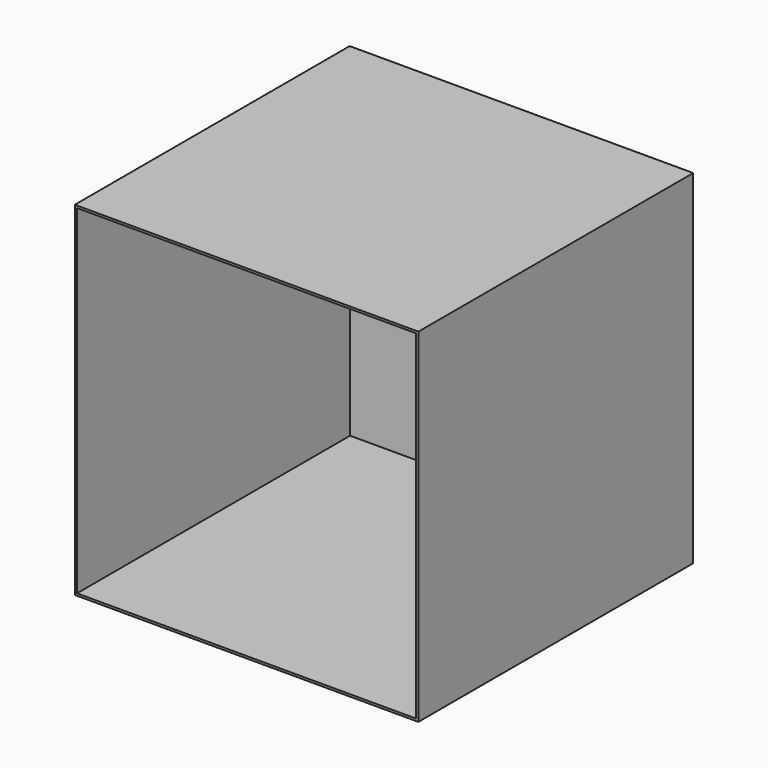
from build123d import *

# Parameters (mm, degrees)
F2_W     = 47.88
F2_H     = 47.88
F3_DEPTH = 0.31
F2_W_2   = 48.5
F2_H_2   = 48.5
F4_DEPTH = 48.5


with BuildPart() as f3:
    # F2 (on Front) → F3 (new body)
    with BuildSketch(Plane.XZ):
        with Locations((-389.1698562622, -641.3108897276)):
            Rectangle(F2_W, F2_H)
    extrude(amount=F3_DEPTH)

    # F2 (on Front) → F4 (join)
    with BuildSketch(Plane.XZ):
        with Locations((-389.1698562622, -641.3108897276)):
            Rectangle(F2_W_2, F2_H_2)
        with Locations((-389.1698562622, -641.3108897276)):
            Rectangle(F2_W, F2_H, mode=Mode.SUBTRACT)
    extrude(amount=F4_DEPTH)


solid = f3.part
